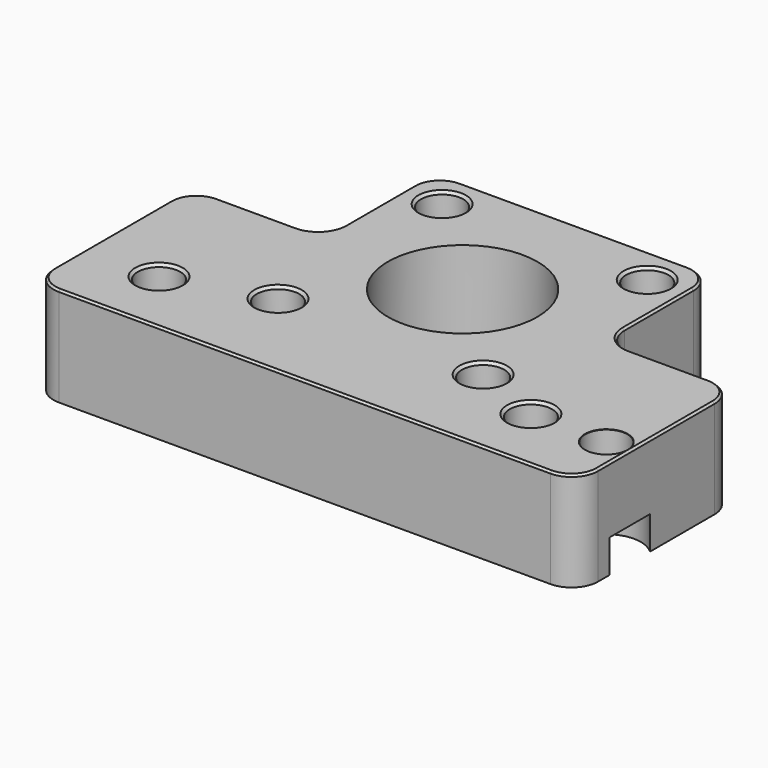
from build123d import *

# Parameters (mm, degrees)
SKETCH_R        = 11.3
SKETCH_R_2      = 1.6
SKETCH_R_3      = 3.2
PAD_DEPTH       = 15
SKETCH001_R     = 3.2
POCKET_DEPTH    = 4
SKETCH002_R     = 5.2
POCKET001_DEPTH = 5
FILLET_R        = 4
CHAMFER_SIZE    = 0.3
CHAMFER001_SIZE = 0.4
CHAMFER002_SIZE = 0.04


with BuildPart() as part:
    # Sketch → Pad (new body)
    with BuildSketch(Plane.XY):
        Polygon((20, 30), (20, 51), (62.3, 51), (62.3, 30), (82.3, 30), (82.3, 0), (0, 0), (0, 30), align=None)
        with Locations((41.15, 29.85)):
            Circle(SKETCH_R, mode=Mode.SUBTRACT)
        with Locations((25.65, 45.35)):
            Circle(SKETCH_R_2, mode=Mode.SUBTRACT)
        with Locations((25.65, 14.35)):
            Circle(SKETCH_R_2, mode=Mode.SUBTRACT)
        with Locations((56.65, 45.35)):
            Circle(SKETCH_R_2, mode=Mode.SUBTRACT)
        with Locations((56.65, 14.35)):
            Circle(SKETCH_R_2, mode=Mode.SUBTRACT)
        with Locations((11.15, 10)):
            Circle(SKETCH_R_3, mode=Mode.SUBTRACT)
        with Locations((67.35, 10)):
            Circle(SKETCH_R_3, mode=Mode.SUBTRACT)
        with Locations((78.75, 10)):
            Circle(SKETCH_R_3, mode=Mode.SUBTRACT)
    extrude(amount=PAD_DEPTH)

    # Sketch001 (on Face18 of Pad) → Pocket (cut)
    with BuildSketch(Plane.XY.offset(15)):
        with Locations((25.65, 45.35)):
            Circle(SKETCH001_R)
        with Locations((56.65, 45.35)):
            Circle(SKETCH001_R)
        with Locations((56.65, 14.35)):
            Circle(SKETCH001_R)
        with Locations((25.65, 14.35)):
            Circle(SKETCH001_R)
    extrude(amount=-POCKET_DEPTH, mode=Mode.SUBTRACT)

    # Sketch002 (on Face4 of Pocket) → Pocket001 (cut)
    with BuildSketch(Plane(origin=(0, 0, 0), x_dir=(1, 0, 0), z_dir=(0, 0, -1))):
        with Locations((11.15, -10)):
            Circle(SKETCH002_R)
        with Locations((67.35, -10)):
            Circle(SKETCH002_R)
        with Locations((78.75, -10)):
            Circle(SKETCH002_R)
    extrude(amount=-POCKET001_DEPTH, mode=Mode.SUBTRACT)

    # Fillet
    fillet_edges = [part.edges().sort_by_distance(p)[0] for p in [
        (82.3, 0, 7.5),
        (0, 0, 7.5),
        (0, 30, 7.5),
        (20, 30, 7.5),
        (20, 51, 7.5),
        (62.3, 51, 7.5),
        (62.3, 30, 7.5),
        (82.3, 30, 7.5),
    ]]
    fillet(fillet_edges, radius=FILLET_R)

    # Chamfer
    chamfer_edges = [part.edges().sort_by_distance(p)[0] for p in [
        (82.3, 15, 15),
        (81.128427, 1.171573, 15),
        (41.15, 0, 15),
        (1.171573, 1.171573, 15),
        (0, 15, 15),
        (1.171573, 28.828427, 15),
        (10, 30, 15),
        (18.828427, 31.171573, 15),
        (20, 40.5, 15),
        (21.171573, 49.828427, 15),
        (41.15, 51, 15),
        (61.128427, 49.828427, 15),
        (62.3, 40.5, 15),
        (63.471573, 31.171573, 15),
        (72.3, 30, 15),
        (81.128427, 28.828427, 15),
    ]]
    chamfer(chamfer_edges, length=CHAMFER_SIZE)

    # Chamfer001
    chamfer001_edges = [part.edges().sort_by_distance(p)[0] for p in [
        (64.15, 10, 15),
        (53.45, 14.35, 15),
        (22.45, 14.35, 15),
        (7.95, 10, 15),
        (22.45, 45.35, 15),
        (53.45, 45.35, 15),
    ]]
    chamfer(chamfer001_edges, length=CHAMFER001_SIZE)

    # Chamfer002
    chamfer002_edges = [part.edges().sort_by_distance(p)[0] for p in [
        (75.55, 10, 15),
    ]]
    chamfer(chamfer002_edges, length=CHAMFER002_SIZE)


solid = part.part
